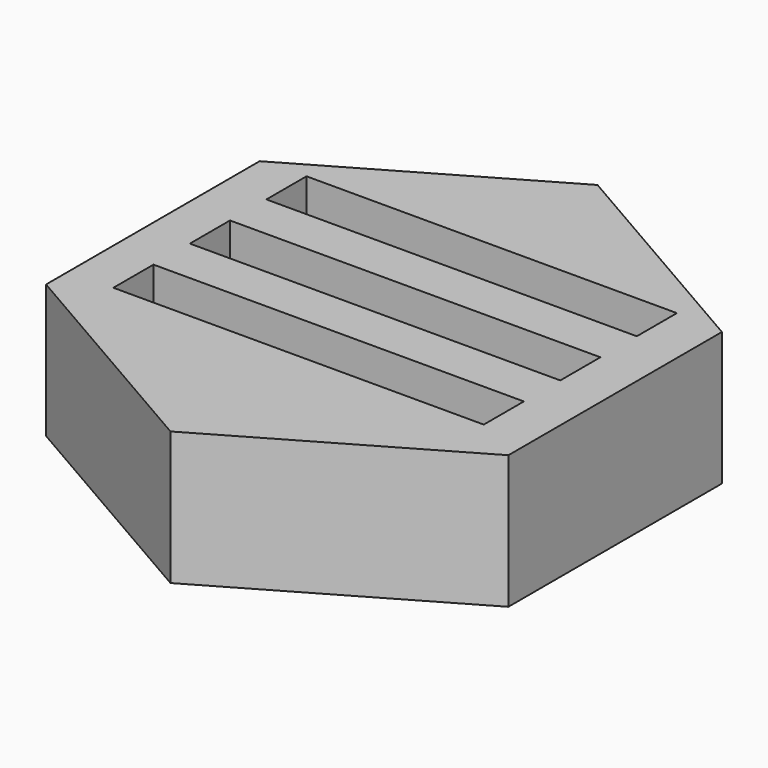
from build123d import *

# Parameters (mm, degrees)
F0_W     = 83.26438
F0_H     = 11.269071
F1_DEPTH = 30


with BuildPart() as f1:
    # F0 (on Top) → F1 (new body)
    with BuildSketch(Plane.XY):
        Polygon((51.961524, -30), (51.961524, 30), (0, 60), (-51.961524, 30), (-51.961524, -30), (0, -60), align=None)
        with Locations((-0.318665, -17.973065)):
            Rectangle(F0_W, F0_H, mode=Mode.SUBTRACT)
        with Locations((-0.318665, 3.526934)):
            Rectangle(F0_W, F0_H, mode=Mode.SUBTRACT)
        with Locations((-0.318665, 25.026934)):
            Rectangle(F0_W, F0_H, mode=Mode.SUBTRACT)
    extrude(amount=F1_DEPTH)


solid = f1.part
